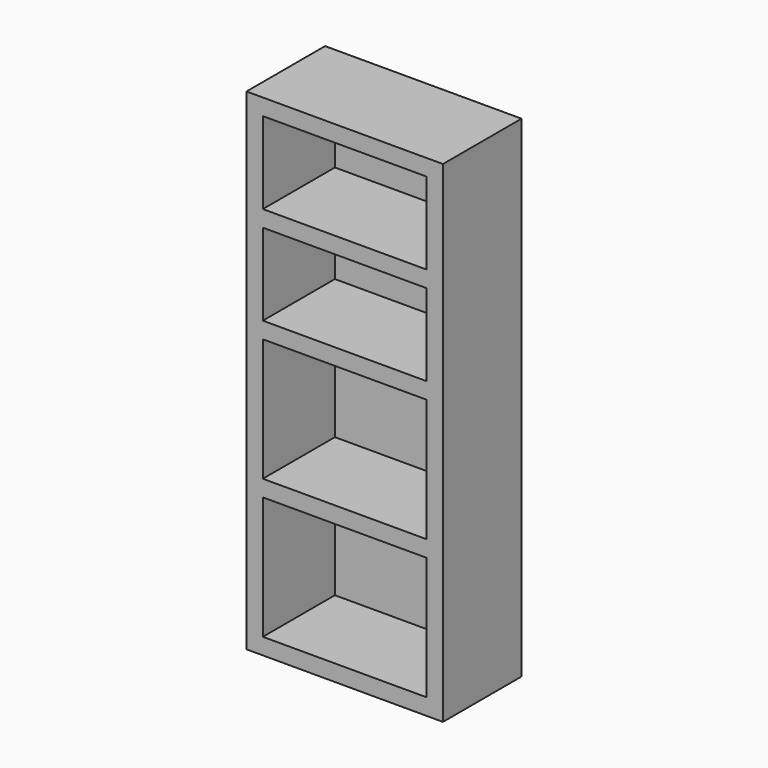
from build123d import *

# Parameters (mm, degrees)
F0_W     = 609.6
F0_H     = 304.8
F1_DEPTH = 1524
F2_W     = 508
F2_H     = 254
F2_H_2   = 381
F3_DEPTH = 279.4


with BuildPart() as f1:
    # F0 (on Top) → F1 (new body)
    with BuildSketch(Plane.XY):
        with Locations((-115.704429, 20.088941)):
            Rectangle(F0_W, F0_H)
    extrude(amount=F1_DEPTH)

    # F2 (on face) → F3 (cut)
    with BuildSketch(Plane.XZ.offset(132.311059)):
        with Locations((-115.704429, 1346.2)):
            Rectangle(F2_W, F2_H)
        with Locations((-115.704429, 1041.4)):
            Rectangle(F2_W, F2_H)
        with Locations((-115.704429, 673.1)):
            Rectangle(F2_W, F2_H_2)
        with Locations((-115.704429, 241.3)):
            Rectangle(F2_W, F2_H_2)
    extrude(amount=-F3_DEPTH, mode=Mode.SUBTRACT)


solid = f1.part
